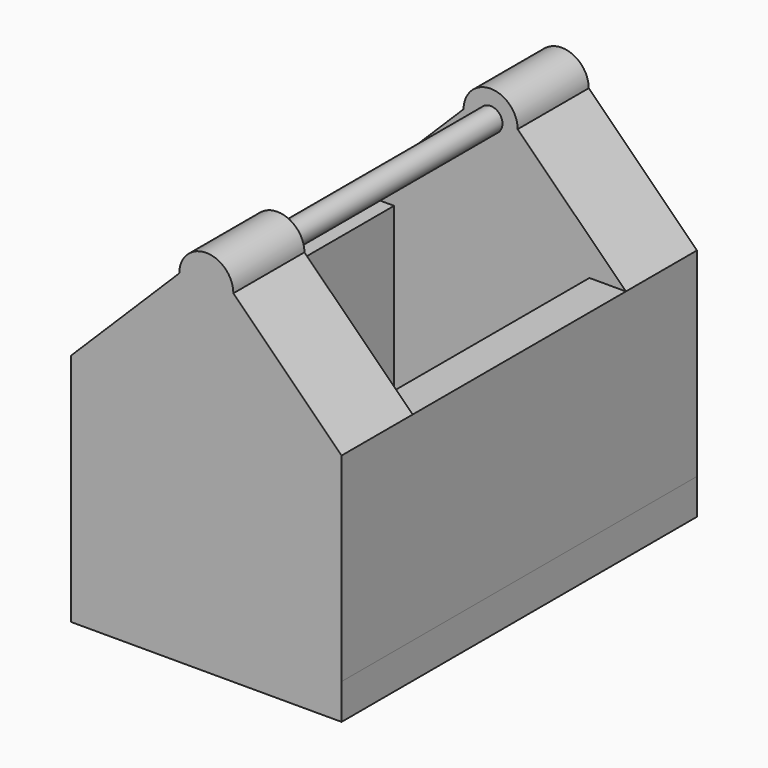
from build123d import *

# Parameters (mm, degrees)
F1_DEPTH = 25
F2_W     = 10.90179
F2_H     = 55.97822
F2_W_2   = 10.267794
F3_DEPTH = 75
F5_DEPTH = 25
F6_R     = 3.32997
F7_DEPTH = 89.4
F8_W     = 76.124623
F8_H     = 125
F9_DEPTH = 10


with BuildPart() as f1:
    # F0 (on Front) → F1 (new body)
    with BuildSketch(Plane.XZ):
        with BuildLine():
            Line((30.449602, 30.27692), (0, 0))
            Line((0, 0), (38.062312, 0))
            Line((38.062312, 0), (76.124623, 0))
            Line((76.124623, 0), (45.675021, 30.27692))
            ThreePointArc((45.675021, 30.27692), (38.062312, 37.846457), (30.449602, 30.27692))
        make_face()
        Polygon((38.062312, 0), (0, 0), (0, -55.97822), (76.124623, -55.97822), (76.124623, 0), align=None)
    extrude(amount=F1_DEPTH)

    # F2 (on face) → F3 (join)
    with BuildSketch(Plane.XZ.offset(25)):
        with Locations((5.450895, -27.98911)):
            Rectangle(F2_W, F2_H)
        with Locations((70.990726, -27.98911)):
            Rectangle(F2_W_2, F2_H)
    extrude(amount=F3_DEPTH)

    # F4 (on face) → F5 (join)
    with BuildSketch(Plane.XZ.offset(100)):
        with BuildLine():
            Line((30.449602, 30.27692), (0, 0))
            Line((0, 0), (38.062312, 0))
            Line((38.062312, 0), (76.124623, 0))
            Line((76.124623, 0), (45.675021, 30.27692))
            ThreePointArc((45.675021, 30.27692), (38.062312, 37.846457), (30.449602, 30.27692))
        make_face()
        Polygon((38.062312, 0), (0, 0), (0, -55.97822), (76.124623, -55.97822), (76.124623, 0), align=None)
    extrude(amount=F5_DEPTH)

    # F6 (on face) → F7 (join)
    with BuildSketch(Plane(origin=(0, -100, 0), x_dir=(-1, 0, 0), z_dir=(0, 1, 0))):
        with Locations((-38.062312, 30.233625)):
            Circle(F6_R)
    extrude(amount=F7_DEPTH)

    # F8 (on face) → F9 (join)
    with BuildSketch(Plane(origin=(0, 0, -55.97822), x_dir=(1, 0, 0), z_dir=(0, 0, -1))):
        with Locations((38.062311, 62.5)):
            Rectangle(F8_W, F8_H)
    extrude(amount=F9_DEPTH)


solid = f1.part
